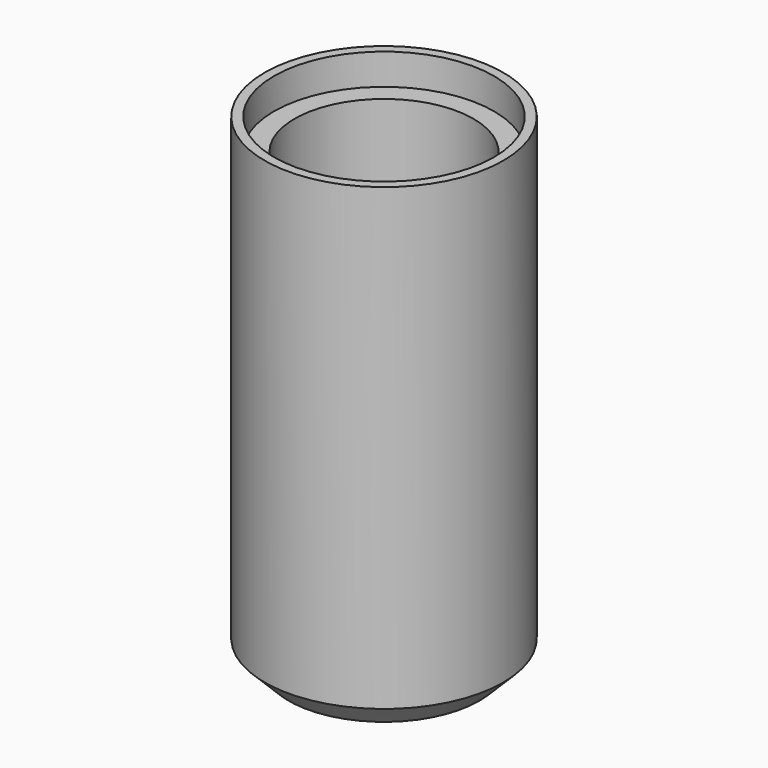
from build123d import *

# Parameters (mm, degrees)
F0_R      = 20
F1_DEPTH  = 81
F2_R      = 18.432207
F3_DEPTH  = 5.2
F4_R      = 15
F5_DEPTH  = 74
F6_SIZE   = 4
F7_R      = 1.125396
F8_DEPTH  = 1
F10_DEPTH = 1


with BuildPart() as f1:
    # F0 (on Top) → F1 (new body)
    with BuildSketch(Plane.XY):
        Circle(F0_R)
    extrude(amount=F1_DEPTH)

    # F2 (on face) → F3 (cut)
    with BuildSketch(Plane.XY.offset(81)):
        Circle(F2_R)
    extrude(amount=-F3_DEPTH, mode=Mode.SUBTRACT)

    # F4 (on face) → F5 (cut)
    with BuildSketch(Plane.XY.offset(75.8)):
        Circle(F4_R)
    extrude(amount=-F5_DEPTH, mode=Mode.SUBTRACT)

    # F6
    f6_edges = [f1.edges().sort_by_distance(p)[0] for p in [
        (-20, 0, 0),
    ]]
    chamfer(f6_edges, length=F6_SIZE)

    # F7 (on face) → F8 (cut)
    with BuildSketch(Plane(origin=(0, 0, 0), x_dir=(1, 0, 0), z_dir=(0, 0, -1))):
        Polygon((-6.869866, 12.288648), (-8.467419, 8.024589), (-3.123957, -5.726644), (0.010684, -5.726644), align=None)
        with Locations((-8.475489, -0.289656)):
            Circle(F7_R)
        Polygon((-11.636892, -2.851509), (-13.690377, -5.736166), (-10.554273, -5.736166), align=None)
    extrude(amount=-F8_DEPTH, mode=Mode.SUBTRACT)

    # F9 (on face) → F10 (cut)
    with BuildSketch(Plane(origin=(0, 0, 0), x_dir=(1, 0, 0), z_dir=(0, 0, -1))):
        with BuildLine():
            Line((5.370924, 12.654014), (-2.24095, 12.654014))
            Line((-2.24095, 12.654014), (-2.24095, 11.971393))
            Line((-2.24095, 11.971393), (5.390103, 11.971393))
            ThreePointArc((5.390103, 11.971393), (8.507735, 8.271818), (6.310662, 3.961442))
            Line((6.310662, 3.961442), (4.144951, 3.961442))
            Line((4.144951, 3.961442), (4.144951, 3.490261))
            Line((4.144951, 3.490261), (6.310662, 3.490261))
            ThreePointArc((6.310662, 3.490261), (9.895604, -0.9064), (7.034451, -5.804997))
            Line((7.034451, -5.804997), (6.007162, -5.804997))
            Line((6.007162, -5.804997), (6.007162, -6.437175))
            Line((6.007162, -6.437175), (7.073962, -6.437175))
            ThreePointArc((7.073962, -6.437175), (10.562571, -1.134228), (6.777628, 3.961442))
            ThreePointArc((6.777628, 3.961442), (9.053097, 8.789785), (5.370924, 12.654014))
        make_face()
    extrude(amount=-F10_DEPTH, mode=Mode.SUBTRACT)


solid = f1.part
